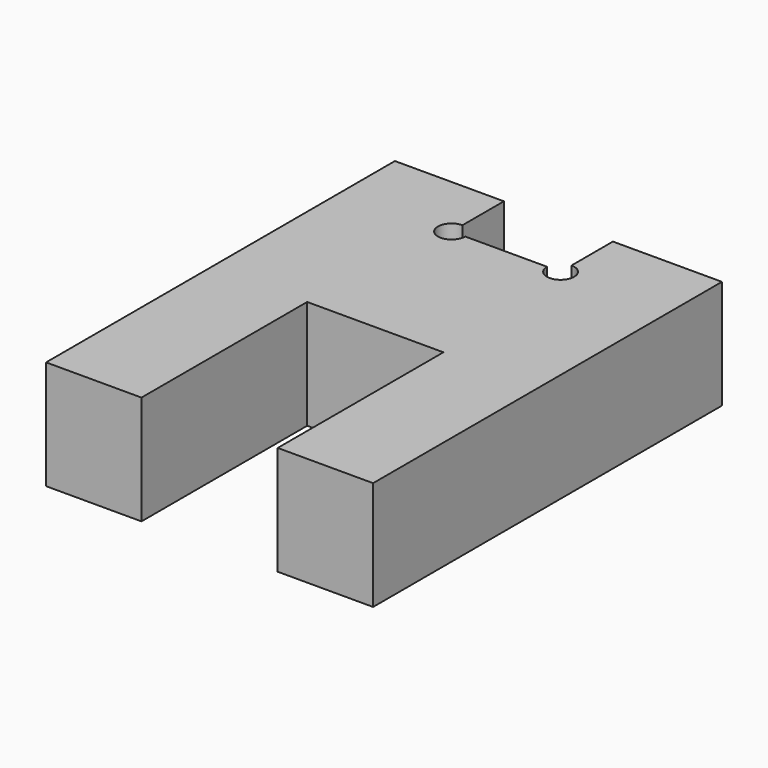
from build123d import *

# Parameters (mm, degrees)
F1_DEPTH = 20


with BuildPart() as f1:
    # F0 (on Top) → F1 (new body)
    with BuildSketch(Plane.XY):
        with BuildLine():
            Line((12.5, -40), (30, -40))
            Line((30, -40), (30, 40))
            Line((30, 40), (10, 40))
            Line((10, 40), (10, 30.5))
            ThreePointArc((10, 30.5), (11.767766953, 26.232233047), (7.5, 28))
            Line((7.5, 28), (-7.5, 28))
            ThreePointArc((-7.5, 28), (-11.767766953, 26.232233047), (-10, 30.5))
            Line((-10, 30.5), (-10, 40))
            Line((-10, 40), (-30, 40))
            Line((-30, 40), (-30, -40))
            Line((-30, -40), (-12.5, -40))
            Line((-12.5, -40), (-12.5, -2))
            Line((-12.5, -2), (12.5, -2))
            Line((12.5, -2), (12.5, -40))
        make_face()
    extrude(amount=F1_DEPTH)


solid = f1.part
